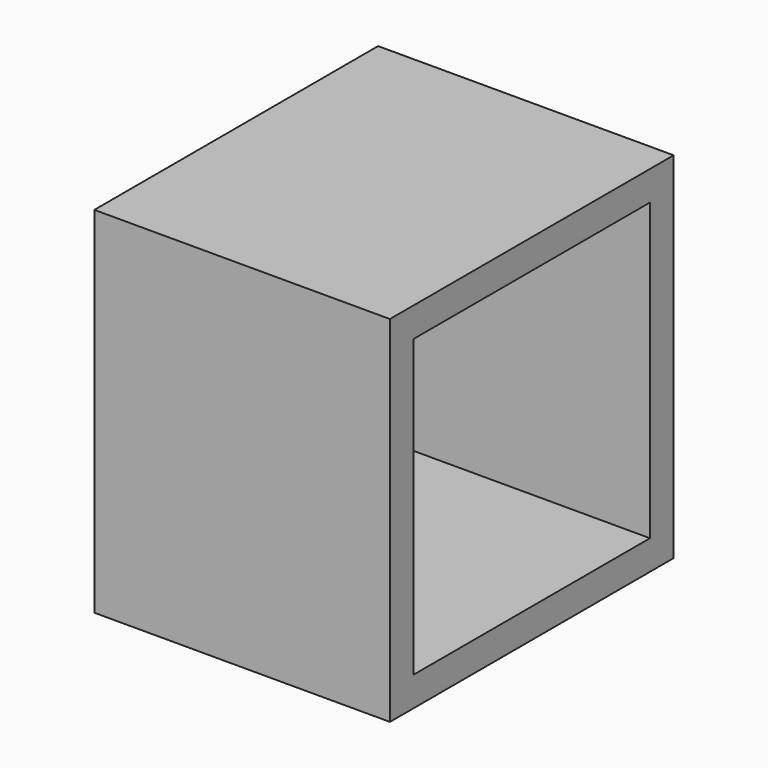
from build123d import *

# Parameters (mm, degrees)
F0_W     = 250
F0_H     = 300
F1_DEPTH = 300
F2_W     = 250
F2_H     = 250
F3_DEPTH = 250.001


with BuildPart() as f1:
    # F0 (on Front) → F1 (new body)
    with BuildSketch(Plane.XZ):
        with Locations((-125, 150)):
            Rectangle(F0_W, F0_H)
    extrude(amount=F1_DEPTH)

    # F2 (on face) → F3 (cut, through all)
    with BuildSketch(Plane.YZ):
        with Locations((-150, 150)):
            Rectangle(F2_W, F2_H)
    extrude(amount=-F3_DEPTH, mode=Mode.SUBTRACT)


solid = f1.part
